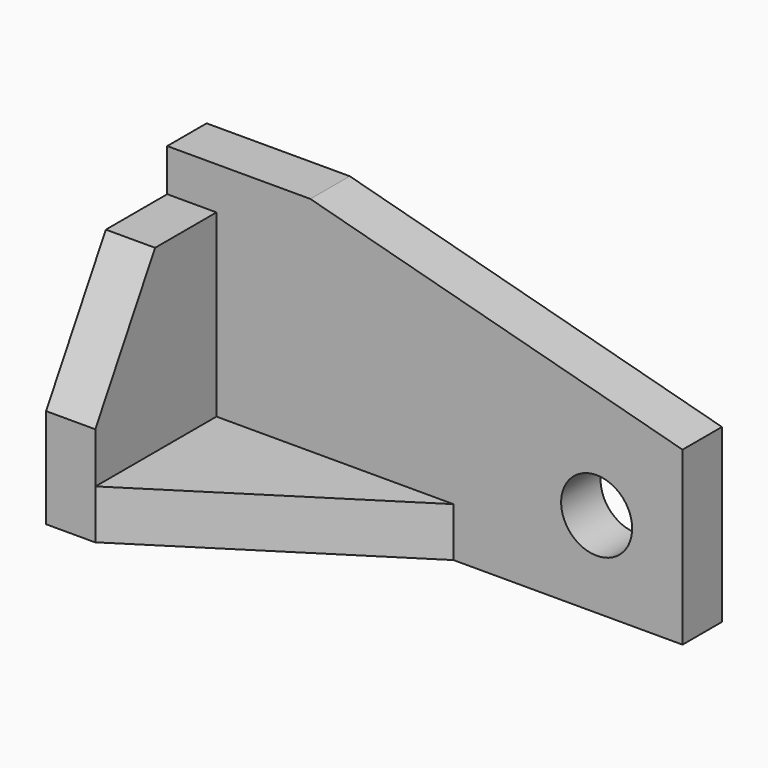
from build123d import *

# Parameters (mm, degrees)
F0_R     = 7.874
F1_DEPTH = 10.922
F3_DEPTH = 10.922
F5_DEPTH = 10.922


with BuildPart() as f1:
    # F0 (on Front) → F1 (new body)
    with BuildSketch(Plane.XZ):
        Polygon((-95.249154, 41.148), (-95.249154, 31.75), (-84.327154, 31.75), (-84.327154, -8.128), (-31.749154, -8.128), (-31.749154, -19.05), (19.050846, -19.05), (19.050846, 19.029863), (-63.499154, 41.148), align=None)
        Circle(F0_R, mode=Mode.SUBTRACT)
    extrude(amount=F1_DEPTH)

    # F2 (on face) → F3 (join)
    with BuildSketch(Plane(origin=(0, 0, -8.128), x_dir=(1, 0, 0), z_dir=(0, 0, -1))):
        Polygon((-84.327154, 44.45), (-84.327154, 0), (-31.749154, 0), (-31.749154, 10.922), align=None)
    extrude(amount=F3_DEPTH)

    # F4 (on face) → F5 (join)
    with BuildSketch(Plane(origin=(-84.327154, 0, 0), x_dir=(0, -1, 0), z_dir=(-1, 0, 0))):
        Polygon((44.511107, -19.05), (44.511107, 3.048), (27.94, 31.75), (0, 31.75), (0, -19.05), align=None)
    extrude(amount=F5_DEPTH)


solid = f1.part
